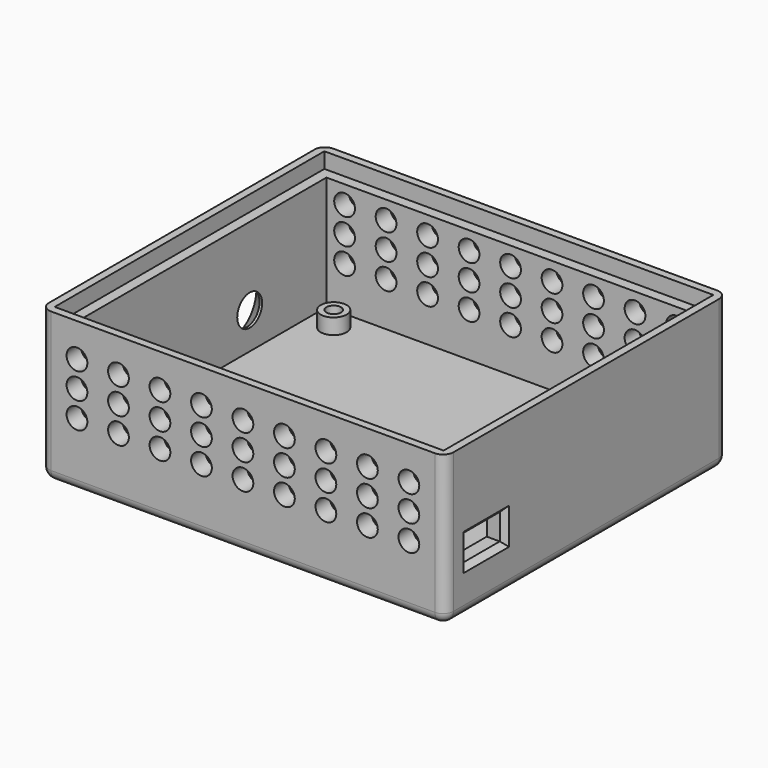
from build123d import *

# Parameters (mm, degrees)
SKETCH_W                        = 78
SKETCH_H                        = 68
PAD_DEPTH                       = 29
SKETCH001_W                     = 71
SKETCH001_H                     = 61
POCKET_DEPTH                    = 25
SKETCH002_R                     = 2.5
PAD001_DEPTH                    = 3
SKETCH002_MIRRORED_2_R          = 2.5
PAD001_MIRRORED_2_DEPTH         = 3
SKETCH003_R                     = 3.111428
POCKET001_DEPTH                 = 3
SKETCH004_R                     = 1.4
POCKET002_DEPTH                 = 4
SKETCH004_MIRRORED002_2_R       = 1.4
POCKET002_MIRRORED002_2_DEPTH   = 4
SKETCH005_R                     = 2.5
PAD002_DEPTH                    = 3
SKETCH006_R                     = 1.1
POCKET003_DEPTH                 = 3
SKETCH007_W                     = 9
SKETCH007_H                     = 5
POCKET004_DEPTH                 = 3.5
SKETCH008_W                     = 9
SKETCH008_H                     = 5
POCKET005_DEPTH                 = 3.5
SKETCH009_R                     = 3
POCKET006_DEPTH                 = 3.5
FILLET_R                        = 2
CHAMFER_SIZE                    = 1
CHAMFER001_SIZE                 = 3
SKETCH010_R                     = 2
POCKET007_DEPTH                 = 282.933548
SKETCH010_LINEARPATTERN_2_R     = 2
POCKET007_LINEARPATTERN_2_DEPTH = 282.933548
SKETCH010_LINEARPATTERN_3_R     = 2
POCKET007_LINEARPATTERN_3_DEPTH = 282.933548
SKETCH010_LINEARPATTERN_4_R     = 2
POCKET007_LINEARPATTERN_4_DEPTH = 282.933548
SKETCH010_LINEARPATTERN_5_R     = 2
POCKET007_LINEARPATTERN_5_DEPTH = 282.933548
SKETCH010_LINEARPATTERN_6_R     = 2
POCKET007_LINEARPATTERN_6_DEPTH = 282.933548
SKETCH010_LINEARPATTERN_7_R     = 2
POCKET007_LINEARPATTERN_7_DEPTH = 282.933548
SKETCH010_LINEARPATTERN_8_R     = 2
POCKET007_LINEARPATTERN_8_DEPTH = 282.933548
SKETCH010_LINEARPATTERN_9_R     = 2
POCKET007_LINEARPATTERN_9_DEPTH = 282.933548
LINEARPATTERN001_COUNT          = 3
LINEARPATTERN001_PITCH          = 5
SKETCH011_W                     = 75
SKETCH011_H                     = 65
POCKET008_DEPTH                 = 3
SKETCH012_R                     = 1.564418
PAD003_DEPTH                    = 1


with BuildPart() as part:
    # Sketch → Pad (new body)
    with BuildSketch(Plane.XY):
        with Locations((39, 34)):
            Rectangle(SKETCH_W, SKETCH_H)
    extrude(amount=PAD_DEPTH)

    # Sketch001 (on Face6 of Pad) → Pocket (cut)
    with BuildSketch(Plane.XY.offset(29)):
        with Locations((39, 34)):
            Rectangle(SKETCH001_W, SKETCH001_H)
    extrude(amount=-POCKET_DEPTH, mode=Mode.SUBTRACT)

    # Sketch002 (on Face11 of Pocket) → Pad001 (join)
    with BuildSketch(Plane.XY.offset(4)):
        with Locations((8.5, 60)):
            Circle(SKETCH002_R)
    pad001 = extrude(amount=PAD001_DEPTH)

    # Sketch002 Mirrored 2 → Pad001 Mirrored 2 (add)
    with BuildSketch(Plane(origin=(0, 68, 4), x_dir=(1, 0, 0), z_dir=(0, 0, -1))):
        with Locations((8.5, 60)):
            Circle(SKETCH002_MIRRORED_2_R)
    pad001_mirrored_2 = extrude(amount=-PAD001_MIRRORED_2_DEPTH)

    # Mirrored001: Pad001, Pad001 Mirrored 2 across Sketch002 Axis3
    add(pad001.mirror(Plane(origin=(39, 64.5, 4), x_dir=(0, 0, 1), z_dir=(1, 0, 0))))
    add(pad001_mirrored_2.mirror(Plane(origin=(39, 64.5, 4), x_dir=(0, 0, 1), z_dir=(1, 0, 0))))

    # Sketch003 (on Face17 of MultiTransform) → Pocket001 (cut)
    with BuildSketch(Plane.XY.offset(7)):
        with Locations((69.5, 8)):
            Circle(SKETCH003_R)
    extrude(amount=-POCKET001_DEPTH, mode=Mode.SUBTRACT)

    # Sketch004 (on Face18 of Pocket001) → Pocket002 (cut)
    with BuildSketch(Plane.XY.offset(7)):
        with Locations((8.5, 60)):
            Circle(SKETCH004_R)
    pocket002 = extrude(amount=-POCKET002_DEPTH, mode=Mode.SUBTRACT)

    # Sketch004 Mirrored002 2 → Pocket002 Mirrored002 2 (cut)
    with BuildSketch(Plane(origin=(78, 0, 7), x_dir=(-1, 0, 0), z_dir=(0, 0, -1))):
        with Locations((8.5, 60)):
            Circle(SKETCH004_MIRRORED002_2_R)
    pocket002_mirrored002_2 = extrude(amount=POCKET002_MIRRORED002_2_DEPTH, mode=Mode.SUBTRACT)

    # Mirrored003: Pocket002, Pocket002 Mirrored002 2 across Sketch004 Axis2
    add(pocket002.mirror(Plane(origin=(39, 34, 7), x_dir=(0, 0, 1), z_dir=(0, 1, 0))), mode=Mode.SUBTRACT)
    add(pocket002_mirrored002_2.mirror(Plane(origin=(39, 34, 7), x_dir=(0, 0, 1), z_dir=(0, 1, 0))), mode=Mode.SUBTRACT)

    # Sketch005 (on Face11 of MultiTransform001) → Pad002 (join)
    with BuildSketch(Plane.XY.offset(4)):
        with Locations((49.5, 18)):
            Circle(SKETCH005_R)
    extrude(amount=PAD002_DEPTH)

    # Sketch006 (on Face19 of Pad002) → Pocket003 (cut)
    with BuildSketch(Plane.XY.offset(7)):
        with Locations((69.5, 60)):
            Circle(SKETCH006_R)
    extrude(amount=-POCKET003_DEPTH, mode=Mode.SUBTRACT)

    # Sketch007 (on Face3 of Pocket003) → Pocket004 (cut)
    with BuildSketch(Plane.YZ.offset(78)):
        with Locations((9.9, 11)):
            Rectangle(SKETCH007_W, SKETCH007_H)
    extrude(amount=-POCKET004_DEPTH, mode=Mode.SUBTRACT)

    # Sketch008 (on Face2 of Pocket004) → Pocket005 (cut)
    with BuildSketch(Plane(origin=(0, 0, 0), x_dir=(0, -1, 0), z_dir=(-1, 0, 0))):
        with Locations((-15.4, 11)):
            Rectangle(SKETCH008_W, SKETCH008_H)
    extrude(amount=-POCKET005_DEPTH, mode=Mode.SUBTRACT)

    # Sketch009 (on Face2 of Pocket005) → Pocket006 (cut)
    with BuildSketch(Plane(origin=(0, 0, 0), x_dir=(0, -1, 0), z_dir=(-1, 0, 0))):
        with Locations((-46, 11)):
            Circle(SKETCH009_R)
    extrude(amount=-POCKET006_DEPTH, mode=Mode.SUBTRACT)

    # Fillet
    fillet_edges = [part.edges().sort_by_distance(p)[0] for p in [
        (39, 0, 0),
        (78, 34, 0),
        (39, 68, 0),
        (0, 34, 0),
        (78, 0, 14.5),
        (0, 68, 14.5),
        (78, 68, 14.5),
        (0, 0, 14.5),
    ]]
    fillet(fillet_edges, radius=FILLET_R)

    # Chamfer
    chamfer_edges = [part.edges().sort_by_distance(p)[0] for p in [
        (78, 9.9, 8.5),
        (78, 5.4, 11),
        (78, 9.9, 13.5),
        (78, 14.4, 11),
        (0, 15.4, 8.5),
        (0, 19.9, 11),
        (0, 15.4, 13.5),
        (0, 10.9, 11),
    ]]
    chamfer(chamfer_edges, length=CHAMFER_SIZE)

    # Chamfer001
    chamfer001_edges = [part.edges().sort_by_distance(p)[0] for p in [
        (0, 49, 11),
    ]]
    chamfer(chamfer001_edges, length=CHAMFER001_SIZE)

    # Sketch010 (on Face16 of Chamfer001) → Pocket007 (cut, through all)
    with BuildSketch(Plane.XZ):
        with Locations((7, 12.5)):
            Circle(SKETCH010_R)
    pocket007 = extrude(amount=-POCKET007_DEPTH, mode=Mode.SUBTRACT)

    # Sketch010 LinearPattern 2 → Pocket007 LinearPattern 2 (cut, through all)
    with BuildSketch(Plane(origin=(8, 0, 0), x_dir=(1, 0, 0), z_dir=(0, -1, 0))):
        with Locations((7, 12.5)):
            Circle(SKETCH010_LINEARPATTERN_2_R)
    pocket007_linearpattern_2 = extrude(amount=-POCKET007_LINEARPATTERN_2_DEPTH, mode=Mode.SUBTRACT)

    # Sketch010 LinearPattern 3 → Pocket007 LinearPattern 3 (cut, through all)
    with BuildSketch(Plane(origin=(16, 0, 0), x_dir=(1, 0, 0), z_dir=(0, -1, 0))):
        with Locations((7, 12.5)):
            Circle(SKETCH010_LINEARPATTERN_3_R)
    pocket007_linearpattern_3 = extrude(amount=-POCKET007_LINEARPATTERN_3_DEPTH, mode=Mode.SUBTRACT)

    # Sketch010 LinearPattern 4 → Pocket007 LinearPattern 4 (cut, through all)
    with BuildSketch(Plane(origin=(24, 0, 0), x_dir=(1, 0, 0), z_dir=(0, -1, 0))):
        with Locations((7, 12.5)):
            Circle(SKETCH010_LINEARPATTERN_4_R)
    pocket007_linearpattern_4 = extrude(amount=-POCKET007_LINEARPATTERN_4_DEPTH, mode=Mode.SUBTRACT)

    # Sketch010 LinearPattern 5 → Pocket007 LinearPattern 5 (cut, through all)
    with BuildSketch(Plane(origin=(32, 0, 0), x_dir=(1, 0, 0), z_dir=(0, -1, 0))):
        with Locations((7, 12.5)):
            Circle(SKETCH010_LINEARPATTERN_5_R)
    pocket007_linearpattern_5 = extrude(amount=-POCKET007_LINEARPATTERN_5_DEPTH, mode=Mode.SUBTRACT)

    # Sketch010 LinearPattern 6 → Pocket007 LinearPattern 6 (cut, through all)
    with BuildSketch(Plane(origin=(40, 0, 0), x_dir=(1, 0, 0), z_dir=(0, -1, 0))):
        with Locations((7, 12.5)):
            Circle(SKETCH010_LINEARPATTERN_6_R)
    pocket007_linearpattern_6 = extrude(amount=-POCKET007_LINEARPATTERN_6_DEPTH, mode=Mode.SUBTRACT)

    # Sketch010 LinearPattern 7 → Pocket007 LinearPattern 7 (cut, through all)
    with BuildSketch(Plane(origin=(48, 0, 0), x_dir=(1, 0, 0), z_dir=(0, -1, 0))):
        with Locations((7, 12.5)):
            Circle(SKETCH010_LINEARPATTERN_7_R)
    pocket007_linearpattern_7 = extrude(amount=-POCKET007_LINEARPATTERN_7_DEPTH, mode=Mode.SUBTRACT)

    # Sketch010 LinearPattern 8 → Pocket007 LinearPattern 8 (cut, through all)
    with BuildSketch(Plane(origin=(56, 0, 0), x_dir=(1, 0, 0), z_dir=(0, -1, 0))):
        with Locations((7, 12.5)):
            Circle(SKETCH010_LINEARPATTERN_8_R)
    pocket007_linearpattern_8 = extrude(amount=-POCKET007_LINEARPATTERN_8_DEPTH, mode=Mode.SUBTRACT)

    # Sketch010 LinearPattern 9 → Pocket007 LinearPattern 9 (cut, through all)
    with BuildSketch(Plane(origin=(64, 0, 0), x_dir=(1, 0, 0), z_dir=(0, -1, 0))):
        with Locations((7, 12.5)):
            Circle(SKETCH010_LINEARPATTERN_9_R)
    pocket007_linearpattern_9 = extrude(amount=-POCKET007_LINEARPATTERN_9_DEPTH, mode=Mode.SUBTRACT)

    # LinearPattern001: Pocket007, Pocket007 LinearPattern 2, Pocket007 LinearPattern 3, Pocket007 LinearPattern 4, Pocket007 LinearPattern 5, Pocket007 LinearPattern 6, Pocket007 LinearPattern 7, Pocket007 LinearPattern 8, Pocket007 LinearPattern 9 ×3
    with Locations(*[(0, 0, i * LINEARPATTERN001_PITCH) for i in range(1, LINEARPATTERN001_COUNT)]):
        add(pocket007, mode=Mode.SUBTRACT)
        add(pocket007_linearpattern_2, mode=Mode.SUBTRACT)
        add(pocket007_linearpattern_3, mode=Mode.SUBTRACT)
        add(pocket007_linearpattern_4, mode=Mode.SUBTRACT)
        add(pocket007_linearpattern_5, mode=Mode.SUBTRACT)
        add(pocket007_linearpattern_6, mode=Mode.SUBTRACT)
        add(pocket007_linearpattern_7, mode=Mode.SUBTRACT)
        add(pocket007_linearpattern_8, mode=Mode.SUBTRACT)
        add(pocket007_linearpattern_9, mode=Mode.SUBTRACT)

    # Sketch011 (on Face7 of MultiTransform002) → Pocket008 (cut)
    with BuildSketch(Plane.XY.offset(29)):
        with Locations((39, 34)):
            Rectangle(SKETCH011_W, SKETCH011_H)
    extrude(amount=-POCKET008_DEPTH, mode=Mode.SUBTRACT)

    # Sketch012 (on Face117 of Pocket008) → Pad003 (join)
    with BuildSketch(Plane.XY.offset(3)):
        with Locations((69.449699, 7.994386)):
            Circle(SKETCH012_R)
    extrude(amount=PAD003_DEPTH)


solid = part.part
